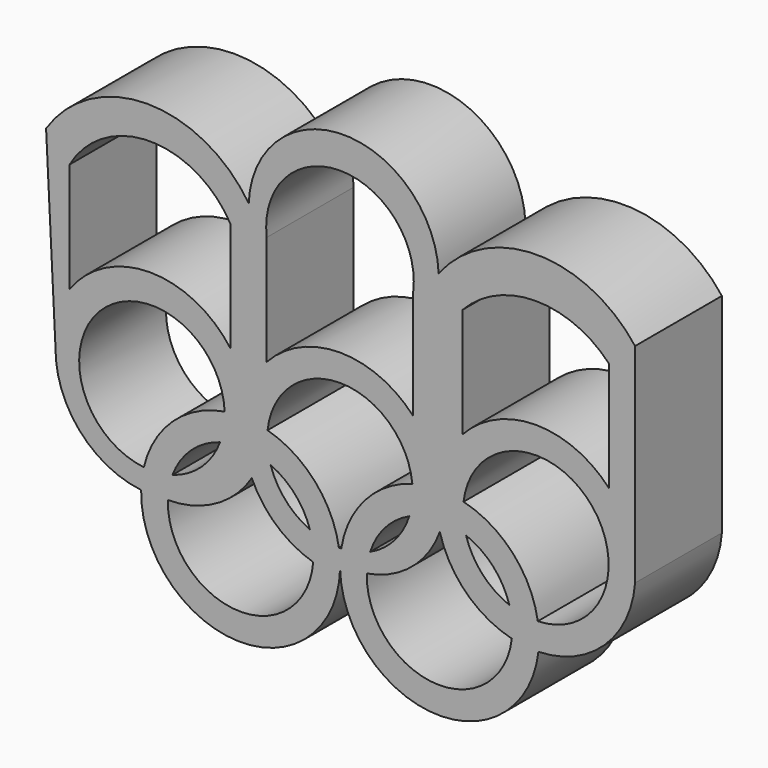
from build123d import *

# Parameters (mm, degrees)
F1_DEPTH = 30


with BuildPart() as f1:
    # F0 (on Front) → F1 (new body)
    with BuildSketch(Plane.XZ):
        with BuildLine():
            ThreePointArc((-54.9521170528, -23.8491586354), (-28.1091280799, -51.8984430625), (0.0321284272, -25.1518900869))
            ThreePointArc((0.0321284272, -25.1518900869), (26.3495429893, -51.881152609), (54.8484302614, -27.4911298852))
            ThreePointArc((54.8484302614, -27.4911298852), (73.1119107996, -19.9172457231), (81.5736683246, -2.0477996696))
            Line((81.5736683246, -2.0477996696), (81.5736683246, 2.0477996696))
            Line((81.5736683246, 2.0477996696), (81.5736683246, 55.5958174029))
            ThreePointArc((81.5736683246, 55.5958174029), (54.4241484279, 68.9932345843), (27.2746285312, 55.5958174029))
            ThreePointArc((27.2746285312, 55.5958174029), (1.0246284195, 80.8096123273), (-25.2253716923, 55.5958174029))
            ThreePointArc((-25.2253716923, 55.5958174029), (-53.228034731, 70.702562407), (-81.2306977697, 55.5958174029))
            Line((-81.2306977697, 55.5958174029), (-78.4778425034, 0))
            ThreePointArc((-78.4778425034, 0), (-70.9148972262, -16.0675390887), (-54.9521170528, -23.8491586354))
        make_face()
        with BuildLine():
            ThreePointArc((-7.4007561448, -25.9193179249), (-28.4812364129, -44.4941022404), (-47.5646903418, -23.8729711647))
            ThreePointArc((-47.5646903418, -23.8729711647), (-34.3206731952, -20.4186294443), (-24.3822257053, -11.0077990669))
            ThreePointArc((-24.3822257053, -11.0077990669), (-17.5187321653, -20.316686125), (-7.4007561448, -25.9193179249))
        make_face(mode=Mode.SUBTRACT)
        with BuildLine():
            ThreePointArc((0.0271304955, -23.8757758069), (0.0294186071, -23.768096335), (0.0321284272, -23.6604266503))
            ThreePointArc((0.0321284272, -23.6604266503), (0.0348421221, -23.7682633174), (0.0371327996, -23.8761097996))
            ThreePointArc((0.0371327996, -23.8761097996), (0.0420299173, -24.5140289677), (0.0321284272, -25.1518900869))
            ThreePointArc((0.0321284272, -25.1518900869), (0.0222262824, -24.5138619416), (0.0271304955, -23.8757758069))
        make_face(mode=Mode.SUBTRACT)
        with BuildLine():
            ThreePointArc((-54.2138562759, -18.0531092806), (-65.6787928849, 16.6598926338), (-31.876788129, 2.7364682046))
            ThreePointArc((-31.876788129, 2.7364682046), (-46.193387, -4.2759267417), (-54.2138562759, -18.0531092806))
        make_face(mode=Mode.SUBTRACT)
        with BuildLine():
            ThreePointArc((-46.2972354408, -17.3600881705), (-41.1613378372, -9.6825409525), (-33.1354322227, -5.1101220582))
            ThreePointArc((-33.1354322227, -5.1101220582), (-38.2713467694, -12.7876510718), (-46.2972354408, -17.3600881705))
        make_face(mode=Mode.SUBTRACT)
        with BuildLine():
            ThreePointArc((-8.28379202, -18.3289875817), (-15.0335916995, -13.3627885044), (-19.173966497, -6.0771707869))
            ThreePointArc((-19.173966497, -6.0771707869), (-12.4241668175, -11.0433698642), (-8.28379202, -18.3289875817))
        make_face(mode=Mode.SUBTRACT)
        with BuildLine():
            ThreePointArc((0.3595453388, -20.110786239), (0.03221559, -20.1139742009), (-0.2951226913, -20.1118347894))
            ThreePointArc((-0.2951226913, -20.1118347894), (-6.9037279047, -6.1364614475), (-20.0076710494, 2.0654527785))
            ThreePointArc((-20.0076710494, 2.0654527785), (0.0088730592, 20.1139980429), (20.0094855634, 2.0477996696))
            ThreePointArc((20.0094855634, 2.0477996696), (6.9467963968, -6.1603269502), (0.3595453388, -20.110786239))
        make_face(mode=Mode.SUBTRACT)
        with BuildLine():
            ThreePointArc((7.4156325472, -23.8526552253), (19.766103054, -18.2537687665), (27.6065623642, -7.1899154992))
            ThreePointArc((27.6065623642, -7.1899154992), (34.9051882996, -19.6439933117), (47.5064553568, -26.6854465182))
            ThreePointArc((47.5064553568, -26.6854465182), (26.1043080175, -44.4701335943), (7.4156325472, -23.8526552253))
        make_face(mode=Mode.SUBTRACT)
        with BuildLine():
            ThreePointArc((19.1631153374, -6.1113015443), (15.0490892529, -13.3453328418), (8.358900034, -18.2948568243))
            ThreePointArc((8.358900034, -18.2948568243), (12.4729261185, -11.0608255268), (19.1631153374, -6.1113015443))
        make_face(mode=Mode.SUBTRACT)
        with BuildLine():
            ThreePointArc((46.8185763045, -18.7302679403), (39.3221118756, -13.5906641625), (34.8534585367, -5.6758904283))
            ThreePointArc((34.8534585367, -5.6758904283), (42.3499229656, -10.8154942061), (46.8185763045, -18.7302679403))
        make_face(mode=Mode.SUBTRACT)
        with BuildLine():
            ThreePointArc((34.1655794844, 2.2792881496), (68.977927064, 13.5906641625), (54.6838728032, -20.1069141496))
            ThreePointArc((54.6838728032, -20.1069141496), (47.7948332515, -5.8249082707), (34.1655794844, 2.2792881496))
        make_face(mode=Mode.SUBTRACT)
        with BuildLine():
            ThreePointArc((-30.2498567443, 18.6062704978), (-52.4959519402, 29.939599581), (-74.7420471362, 18.6062704978))
            Line((-74.7420471362, 18.6062704978), (-74.7420471362, 48.9116348326))
            ThreePointArc((-74.7420471362, 48.9116348326), (-52.4959519402, 61.8198600399), (-30.2498567443, 48.9116348326))
            Line((-30.2498567443, 48.9116348326), (-30.2498567443, 18.6062704978))
        make_face(mode=Mode.SUBTRACT)
        with BuildLine():
            Line((20.2498567443, 48.9116348326), (20.2498567443, 18.6062704978))
            ThreePointArc((20.2498567443, 18.6062704978), (0, 27.5), (-20.2498567443, 18.6062704978))
            Line((-20.2498567443, 18.6062704978), (-20.2498567443, 48.9116348326))
            ThreePointArc((-20.2498567443, 48.9116348326), (0, 71.7829276504), (20.2498567443, 48.9116348326))
        make_face(mode=Mode.SUBTRACT)
        with BuildLine():
            ThreePointArc((74.399876214, 18.6062704978), (54.1500194698, 27.5), (33.9001627255, 18.6062704978))
            Line((33.9001627255, 18.6062704978), (33.9001627255, 48.9116348326))
            ThreePointArc((33.9001627255, 48.9116348326), (54.1500194698, 57.6462536934), (74.399876214, 48.9116348326))
            Line((74.399876214, 48.9116348326), (74.399876214, 18.6062704978))
        make_face(mode=Mode.SUBTRACT)
        with BuildLine():
            ThreePointArc((0.0371327996, -23.8761097996), (0.0321316324, -23.8759432582), (0.0271304955, -23.8757758069))
            ThreePointArc((0.0271304955, -23.8757758069), (0.0222262824, -24.5138619416), (0.0321284272, -25.1518900869))
            ThreePointArc((0.0321284272, -25.1518900869), (0.0420299173, -24.5140289677), (0.0371327996, -23.8761097996))
        make_face()
    extrude(amount=F1_DEPTH)


solid = f1.part
